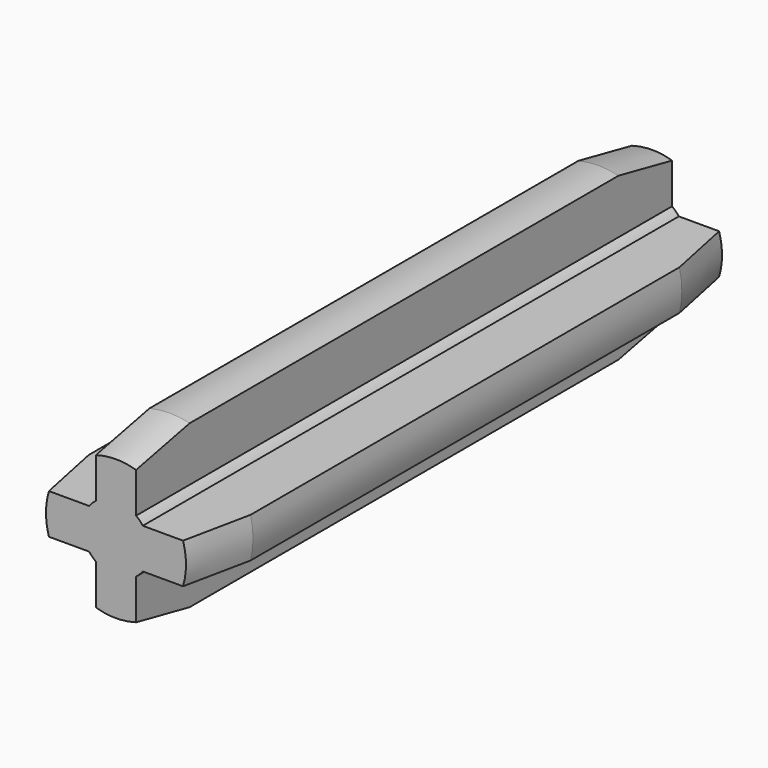
from build123d import *

# Parameters (mm, degrees)
F1_DEPTH      = 25
F1_DEPTH_BACK = 25
F2_SIZE2      = 5
F2_SIZE       = 1
F3_SIZE2      = 1
F3_SIZE       = 5
F3_2_SIZE2    = 1
F3_2_SIZE     = 5
F3_3_SIZE2    = 1
F3_3_SIZE     = 5
F3_4_SIZE2    = 1
F3_4_SIZE     = 5


with BuildPart() as f1:
    # F0 (on Front) → F1 (new body, two sides)
    with BuildSketch(Plane.XZ) as f1_sk:
        with BuildLine():
            Line((-1.5, -2), (-1.5, -6.0415747119))
            ThreePointArc((-1.5, -6.0415747119), (0, -6.225), (1.5, -6.0415747119))
            Line((1.5, -6.0415747119), (1.5, -2))
            ThreePointArc((1.5, -2), (1.767766953, -1.767766953), (2, -1.5))
            Line((2, -1.5), (6.0415747119, -1.5))
            ThreePointArc((6.0415747119, -1.5), (6.225, 0), (6.0415747119, 1.5))
            Line((6.0415747119, 1.5), (2, 1.5))
            ThreePointArc((2, 1.5), (1.767766953, 1.767766953), (1.5, 2))
            Line((1.5, 2), (1.5, 6.0415747119))
            ThreePointArc((1.5, 6.0415747119), (0, 6.225), (-1.5, 6.0415747119))
            Line((-1.5, 6.0415747119), (-1.5, 2))
            ThreePointArc((-1.5, 2), (-1.767766953, 1.767766953), (-2, 1.5))
            Line((-2, 1.5), (-6.0415747119, 1.5))
            ThreePointArc((-6.0415747119, 1.5), (-6.225, 0), (-6.0415747119, -1.5))
            Line((-6.0415747119, -1.5), (-2, -1.5))
            ThreePointArc((-2, -1.5), (-1.767766953, -1.767766953), (-1.5, -2))
        make_face()
    extrude(amount=F1_DEPTH)
    extrude(f1_sk.sketch, amount=-F1_DEPTH_BACK)

    # F2
    f2_edges = [f1.edges().sort_by_distance(p)[0] for p in [
        (0, -25, 6.225),
        (6.225, -25, 0),
        (0, -25, -6.225),
        (-6.225, -25, 0),
    ]]
    f2_side = f1.faces().sort_by_distance((0, -25, 0))[0]
    chamfer(f2_edges, length=F2_SIZE, length2=F2_SIZE2, reference=f2_side)

    # F3
    f3_edges = [f1.edges().sort_by_distance(p)[0] for p in [
        (0, 25, 6.225),
    ]]
    f3_side = f1.faces().sort_by_distance((0, 2.5, 6.225))[0]
    chamfer(f3_edges, length=F3_SIZE, length2=F3_SIZE2, reference=f3_side)

    # F3#2
    f3_2_edges = [f1.edges().sort_by_distance(p)[0] for p in [
        (6.225, 25, 0),
    ]]
    f3_2_side = f1.faces().sort_by_distance((6.225, 2.5, 0))[0]
    chamfer(f3_2_edges, length=F3_2_SIZE, length2=F3_2_SIZE2, reference=f3_2_side)

    # F3#3
    f3_3_edges = [f1.edges().sort_by_distance(p)[0] for p in [
        (-6.225, 25, 0),
    ]]
    f3_3_side = f1.faces().sort_by_distance((-6.225, 2.5, 0))[0]
    chamfer(f3_3_edges, length=F3_3_SIZE, length2=F3_3_SIZE2, reference=f3_3_side)

    # F3#4
    f3_4_edges = [f1.edges().sort_by_distance(p)[0] for p in [
        (0, 25, -6.225),
    ]]
    f3_4_side = f1.faces().sort_by_distance((0, 2.5, -6.225))[0]
    chamfer(f3_4_edges, length=F3_4_SIZE, length2=F3_4_SIZE2, reference=f3_4_side)


solid = f1.part
